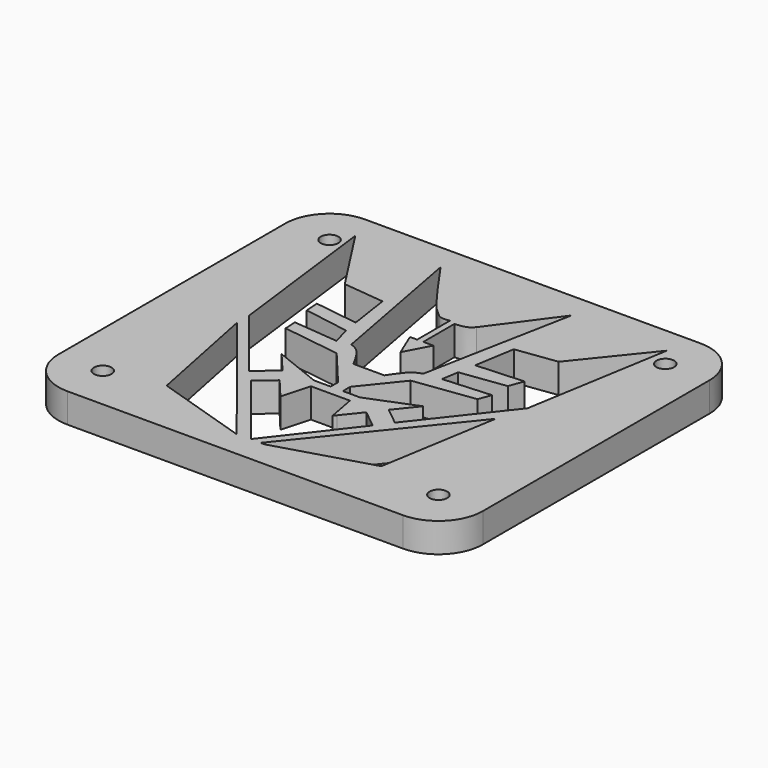
from build123d import *

# Parameters (mm, degrees)
F0_R     = 1.5
F1_DEPTH = 5


with BuildPart() as f1:
    # F0 (on Top) → F1 (new body)
    with BuildSketch(Plane.XY):
        with BuildLine():
            Line((28.575, 31.67), (-28.575, 31.67))
            ThreePointArc((-28.575, 31.67), (-33.9065851301, 29.4615851301), (-36.115, 24.13))
            Line((-36.115, 24.13), (-36.115, -24.13))
            ThreePointArc((-36.115, -24.13), (-33.9065851301, -29.4615851301), (-28.575, -31.67))
            Line((-28.575, -31.67), (28.575, -31.67))
            ThreePointArc((28.575, -31.67), (33.9065851301, -29.4615851301), (36.115, -24.13))
            Line((36.115, -24.13), (36.115, 24.13))
            ThreePointArc((36.115, 24.13), (33.9065851301, 29.4615851301), (28.575, 31.67))
        make_face()
        with Locations((-28.575, -24.13)):
            Circle(F0_R, mode=Mode.SUBTRACT)
        Polygon((6.2527900536, -11.5708104593), (9.2793256044, -14.0073262155), (-0.9104009134, -27.1782091798), (-11.4204209558, -14.0073262155), (-8.51109229, -11.5708104593), (-5.5128769018, -15.1508381907), (-4.1845976375, -10.3244902566), (2.4567989167, -10.3244902566), (3.3706848119, -15.1508381907), (3.7498176424, -14.6798956216), align=None, mode=Mode.SUBTRACT)
        Polygon((-23.2801141861, -2.1800489627), (-3.2509050798, -27.2801313549), (-19.2656442523, -22.165434435), align=None, mode=Mode.SUBTRACT)
        with Locations((28.575, -24.13)):
            Circle(F0_R, mode=Mode.SUBTRACT)
        Polygon((0.7662613061, -27.2293109447), (20.8395048976, -2.2951872088), (17.5112579018, -22.4489029497), (1.4907777077, -27.2293109447), align=None, mode=Mode.SUBTRACT)
        Polygon((-9.9460659389, -9.1543504968), (-13.361800462, -12.0149729773), (-23.3147393549, 0.4577904218), (-26.6425088048, 27.1988492459), (-19.0398674458, 15.4525628313), (-12.0270624757, 14.7153204307), (-10.9837119319, 7.7022297044), (-18.4164068339, 8.7475319435), (-18.2800174343, 6.4083864975), (-10.5500826612, 5.114952568), (-9.6885105595, 1.9968850538), (-17.3490952176, 2.7163710911), (-17.2258857638, 0.603268214), (-7.4416000808, -0.7727516371), (-2.0714257844, -7.1850237437), (-2.0714257844, -8.754757233), (-4.9091139808, -8.754757233), (-13.0237422309, -5.51773565), align=None, mode=Mode.SUBTRACT)
        with BuildLine():
            add(Edge.make_bspline(
                [(-1.5434205998, 15.9520953894), (-2.1127854677, 15.8652707774), (-3.1954940882, 15.7001644261), (-4.2268327688, 16.8407808297), (-5.4375210158, 17.6281538425), (-9.2633203303, 23.0989462448), (-12.147068046, 27.2226296365)],
                knots=[0, 0, 0, 0, 0.1812052149, 0.3445812332, 0.5059692848, 1, 1, 1, 1], degree=3))
            Line((-1.5434205998, 15.9520953894), (-1.5434205998, 8.9782960713))
            Line((-1.5434205998, 8.9782960713), (-2.7677833568, 8.9782960713))
            Line((-2.7677833568, 8.9782960713), (-1.0155849159, 4.7854543664))
            Line((-1.0155849159, 4.7854543664), (1.2114524143, 8.9782960713))
            Line((1.2114524143, 8.9782960713), (-0.495339511, 8.9782960713))
            Line((-0.495339511, 8.9782960713), (-0.495339511, 15.5966216698))
            add(Edge.make_bspline(
                [(2.392585855, 16.7120974511), (2.1150017163, 16.4235156809), (1.4856865312, 15.7692675998), (0.2149107712, 15.6585198064), (-0.495339511, 15.5966216698)],
                knots=[0, 0, 0, 0, 0.4410892114, 1, 1, 1, 1], degree=3))
            Line((2.392585855, 16.7120974511), (10.12203563, 27.2226296365))
            Line((10.12203563, 27.2226296365), (5.2505019121, 1.9477001624))
            Line((5.2505019121, 1.9477001624), (5.1744488655, 1.8045151419))
            add(Edge.make_bspline(
                [(5.1744488655, 1.8045151419), (4.7180148969, 1.6646463966), (3.4212599775, 1.14619058), (2.2473178638, -0.6256342161), (1.4829438878, -1.7792999279)],
                knots=[0.1136874814, 0.1136874814, 0.1136874814, 0.1136874814, 0.4229066187, 1, 1, 1, 1], degree=3))
            Line((1.4829438878, -1.7792999279), (-3.7846511696, -1.7792999279))
            add(Edge.make_bspline(
                [(-7.5035453774, 2.4273574818), (-6.9701059824, 2.2073427858), (-5.6561009128, 1.6653872637), (-4.4820682586, -0.4955979623), (-3.7846511696, -1.7792999279)],
                knots=[0, 0, 0, 0, 0.4059644878, 1, 1, 1, 1], degree=3))
            Line((-7.5035453774, 2.4273574818), (-12.147068046, 27.2226296365))
        make_face(mode=Mode.SUBTRACT)
        with Locations((-28.575, 24.13)):
            Circle(F0_R, mode=Mode.SUBTRACT)
        Polygon((22.2602374852, 2.7163710911), (11.0789202031, -11.5303234741), (8.1275883001, -9.1543504968), (11.0552490609, -5.51773565), (2.9398098122, -8.754757233), (0, -8.754757233), (0, -7.1850237437), (5.1622066744, -0.7727516371), (15.4377110302, 0.603268214), (16.2226036191, 2.7163710911), (8.1275883001, 2.1730016451), (8.6015986256, 5.0433022481), (16.2226036191, 6.0638510984), (17.1265321758, 8.4974248905), (9.0981954709, 8.029313758), (10.2221901556, 14.8355001374), (17.1265321758, 15.7600787614), (26.3624843102, 27.2325830574), align=None, mode=Mode.SUBTRACT)
        with Locations((28.575, 24.13)):
            Circle(F0_R, mode=Mode.SUBTRACT)
    extrude(amount=F1_DEPTH)


solid = f1.part
